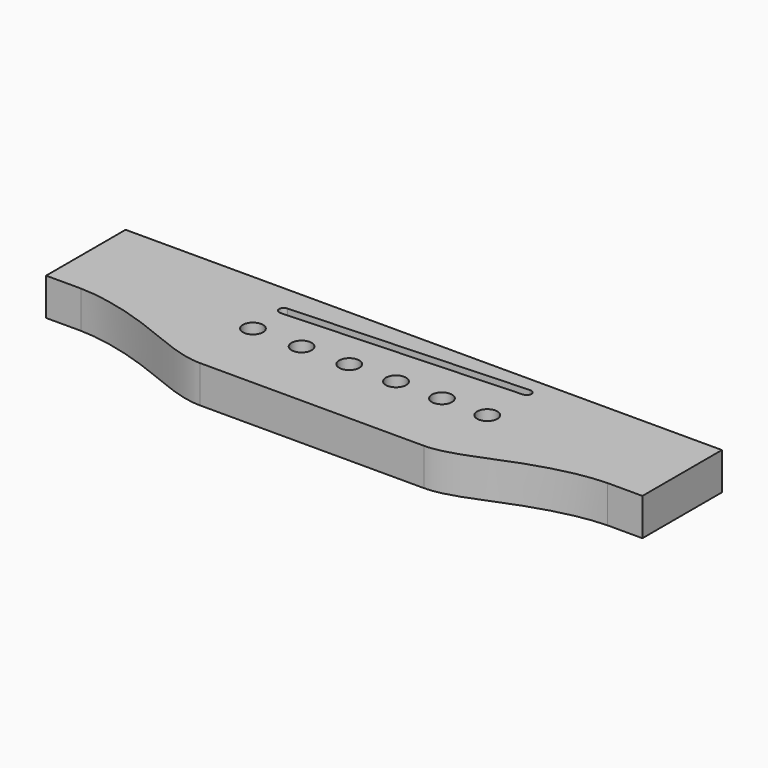
from build123d import *

# Parameters (mm, degrees)
F0_R     = 2.5796875
F1_DEPTH = 9.525


with BuildPart() as f1:
    # F0 (on Top) → F1 (new body)
    with BuildSketch(Plane.XY):
        with BuildLine():
            Line((76.2, 35.71875), (0, 35.71875))
            Line((0, 35.71875), (-76.2, 35.71875))
            Line((-76.2, 35.71875), (-76.2, 10.31875))
            Line((-76.2, 10.31875), (-67.3197399736, 10.31875))
            add(Edge.make_bspline(
                [(-67.3197399736, 10.31875), (-61.8867674924, 10.2547754123), (-47.5386632194, 6.8807184355), (-34.2599964973, 0), (-28.575, 0)],
                knots=[0, 0, 0, 0, 0.4984157806, 1, 1, 1, 1], degree=3))
            Line((-28.575, 0), (0, 0))
            Line((0, 0), (28.575, 0))
            add(Edge.make_bspline(
                [(67.3197399736, 10.31875), (61.8867674924, 10.2547754123), (47.5386632194, 6.8807184355), (34.2599964973, 0), (28.575, 0)],
                knots=[0, 0, 0, 0, 0.4984157806, 1, 1, 1, 1], degree=3))
            Line((67.3197399736, 10.31875), (76.2, 10.31875))
            Line((76.2, 10.31875), (76.2, 35.71875))
        make_face()
        with Locations((-29.6867411598, 18.25625)):
            Circle(F0_R, mode=Mode.SUBTRACT)
        with Locations((-17.2455671598, 18.25625)):
            Circle(F0_R, mode=Mode.SUBTRACT)
        with Locations((-5.0710931598, 18.25625)):
            Circle(F0_R, mode=Mode.SUBTRACT)
        with Locations((6.8747808402, 18.25625)):
            Circle(F0_R, mode=Mode.SUBTRACT)
        with Locations((18.6174548402, 18.25625)):
            Circle(F0_R, mode=Mode.SUBTRACT)
        with Locations((30.2077288402, 18.25625)):
            Circle(F0_R, mode=Mode.SUBTRACT)
        with BuildLine():
            ThreePointArc((-29.6326200987, 26.9315806998), (-30.87613546, 28.0668539389), (-29.7408622209, 29.3103693002))
            Line((-29.7408622209, 29.3103693002), (30.1536077791, 32.03575))
            ThreePointArc((30.1536077791, 32.03575), (31.3971231404, 30.9004767609), (30.2618499013, 29.6569613996))
            Line((30.2618499013, 29.6569613996), (-29.6326200987, 26.9315806998))
        make_face(mode=Mode.SUBTRACT)
    extrude(amount=F1_DEPTH)


solid = f1.part
